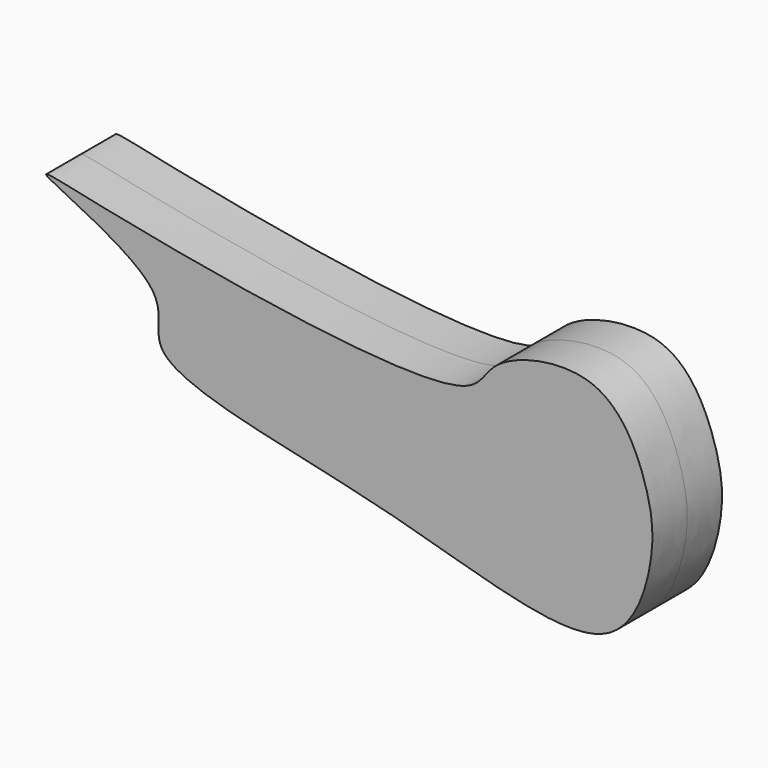
from build123d import *

# Parameters (mm, degrees)
F1_DEPTH      = 12.7
F1_DEPTH_BACK = 12.7


with BuildPart() as f1:
    # F0 (on Front) → F1 (new body, two sides)
    with BuildSketch(Plane.XZ) as f1_sk:
        with BuildLine():
            add(Edge.make_bspline(
                [(-94.5574343204, 38.6304929852), (-65.1615191711, 32.4985664461), (14.5777016414, 18.2550401723), (16.4513749201, 37.9520314261), (51.6396026776, 46.2853392884), (64.452117389, 18.7707493181), (66.459045109, 0.7830334176), (54.5914723248, -35.5254190366), (-10.2858775845, -9.4100363368), (-87.1596470318, 1.194287215), (-72.2437294238, 24.6278606165), (-123.7686867094, 45.4306675111), (-106.4238999492, 41.1058129454), (-94.5574343204, 38.6304929852)],
                knots=[0, 0, 0, 0, 0.1599593998, 0.2165680397, 0.2995587144, 0.3784206374, 0.446999086, 0.5268335005, 0.653550898, 0.7821362178, 0.8413442995, 0.9354280107, 1, 1, 1, 1], degree=3))
        make_face()
    extrude(amount=F1_DEPTH)
    extrude(f1_sk.sketch, amount=-F1_DEPTH_BACK)


solid = f1.part
